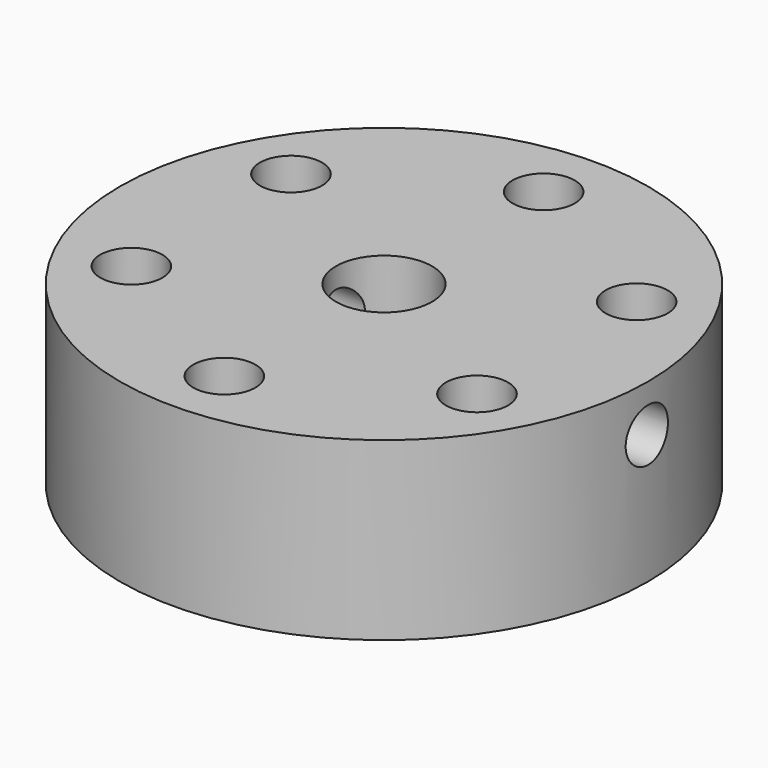
from build123d import *

# Parameters (mm, degrees)
F0_R     = 22.5
F1_DEPTH = 15
F3_D     = 8.2
F5_D     = 5.3
F6_R     = 2.25
F7_DEPTH = 50


with BuildPart() as f1:
    # F0 (on Top) → F1 (new body)
    with BuildSketch(Plane.XY):
        Circle(F0_R)
    extrude(amount=F1_DEPTH)

    # F3 (through all)
    with Locations(Plane.XY.offset(15)):
        with Locations((0, 0)):
            Hole(F3_D / 2)

    # F5 (through all)
    with Locations(Plane.XY.offset(15)):
        with Locations((0, 17), (14.722432, 8.5), (14.722432, -8.5), (0, -17), (-14.722432, -8.5), (-14.722432, 8.5)):
            Hole(F5_D / 2)

    # F6 (on Right) → F7 (cut, symmetric)
    with BuildSketch(Plane.YZ):
        with Locations((0, 11)):
            Circle(F6_R)
    extrude(amount=F7_DEPTH, both=True, mode=Mode.SUBTRACT)


solid = f1.part
